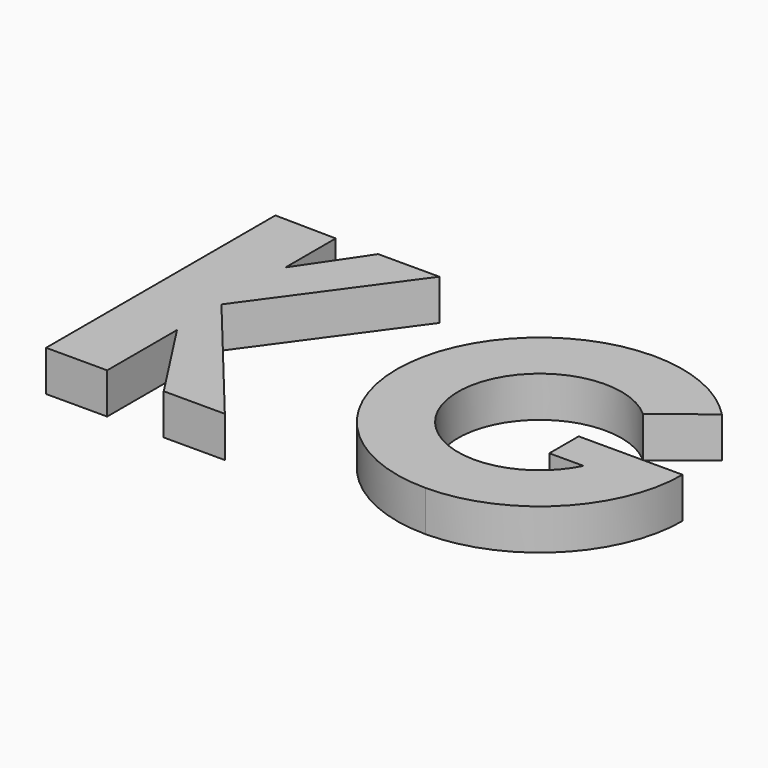
from build123d import *

# Parameters (mm, degrees)
F1_DEPTH = 12.7


with BuildPart() as f1:
    # F0 (on Top) → F1 (new body)
    with BuildSketch(Plane.XY):
        Polygon((-36.696315, 44.547699), (-55.746315, 44.840774), (-55.746315, -44.547699), (-36.696315, -44.547699), (-36.696315, -17.328467), (-19.05, -44.547699), (0, -44.547699), (-36.696315, 0), (-4.396156, 44.547699), (-23.446156, 44.547699), (-36.696315, 24.960506), align=None)
        with BuildLine():
            Line((79.582883, 18.986776), (94.709925, 30.840735))
            ThreePointArc((94.709925, 30.840735), (80.037249, 40.977929), (62.564217, 44.547699))
            ThreePointArc((62.564217, 44.547699), (18.016518, 0), (62.564217, -44.547699))
            ThreePointArc((62.564217, -44.547699), (94.064197, -31.49998), (107.111915, 0))
            Line((107.111915, 0), (88.061915, 0))
            Line((88.061915, 0), (74.711479, 0))
            Line((74.711479, 0), (74.711479, -11.430001))
            Line((74.711479, -11.430001), (85.35649, -11.430001))
            ThreePointArc((85.35649, -11.430001), (37.513811, -4.754981), (79.582883, 18.986776))
        make_face()
    extrude(amount=F1_DEPTH)


solid = f1.part
